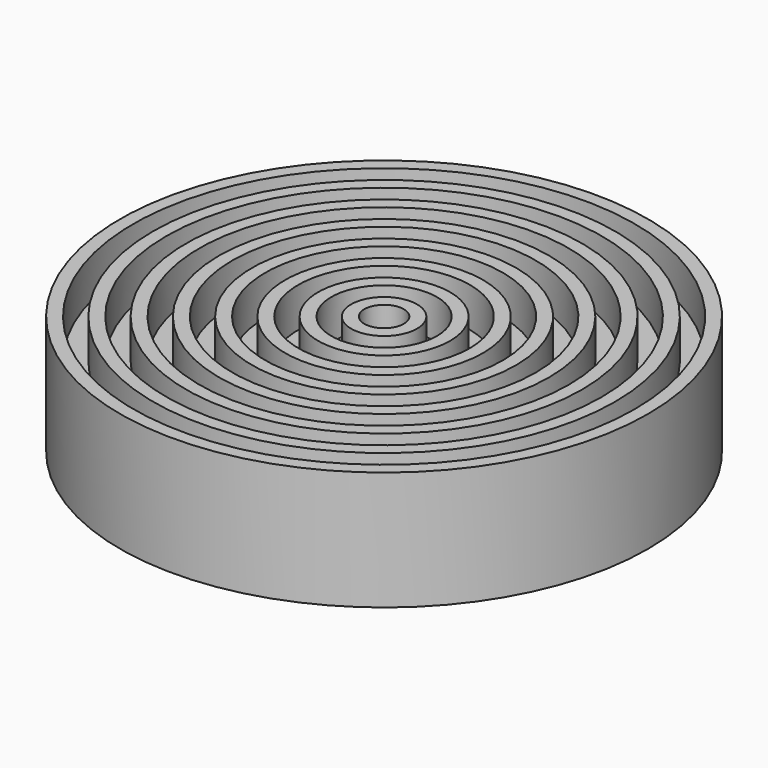
from build123d import *

# Parameters (mm, degrees)
F0_R          = 100
F1_DEPTH      = 5
F1_DEPTH_BACK = 25
F2_R          = 100
F2_R_2        = 95
F2_R_3        = 87.5
F2_R_4        = 82.5
F2_R_5        = 75
F2_R_6        = 70
F2_R_7        = 62.5
F2_R_8        = 57.5
F2_R_9        = 50
F2_R_10       = 45
F2_R_11       = 37.5
F2_R_12       = 32.5
F2_R_13       = 25
F2_R_14       = 20
F2_R_15       = 12.5
F2_R_16       = 7.5
F3_DEPTH      = 15
F4_R          = 31.65685
F5_DEPTH      = 5


with BuildPart() as f1:
    # F0 (on Top) → F1 (new body, two sides)
    with BuildSketch(Plane.XY) as f1_sk:
        Circle(F0_R)
    extrude(amount=F1_DEPTH)
    extrude(f1_sk.sketch, amount=-F1_DEPTH_BACK)

    # F2 (on face) → F3 (join)
    with BuildSketch(Plane.XY.offset(5)):
        Circle(F2_R)
        Circle(F2_R_2, mode=Mode.SUBTRACT)
        Circle(F2_R_3)
        Circle(F2_R_4, mode=Mode.SUBTRACT)
        Circle(F2_R_5)
        Circle(F2_R_6, mode=Mode.SUBTRACT)
        Circle(F2_R_7)
        Circle(F2_R_8, mode=Mode.SUBTRACT)
        Circle(F2_R_9)
        Circle(F2_R_10, mode=Mode.SUBTRACT)
        Circle(F2_R_11)
        Circle(F2_R_12, mode=Mode.SUBTRACT)
        Circle(F2_R_13)
        Circle(F2_R_14, mode=Mode.SUBTRACT)
        Circle(F2_R_15)
        Circle(F2_R_16, mode=Mode.SUBTRACT)
    extrude(amount=F3_DEPTH)

    # F4 (on face) → F5 (join)
    with BuildSketch(Plane(origin=(0, 0, -25), x_dir=(1, 0, 0), z_dir=(0, 0, -1))):
        Circle(F4_R)
    extrude(amount=F5_DEPTH)


solid = f1.part
